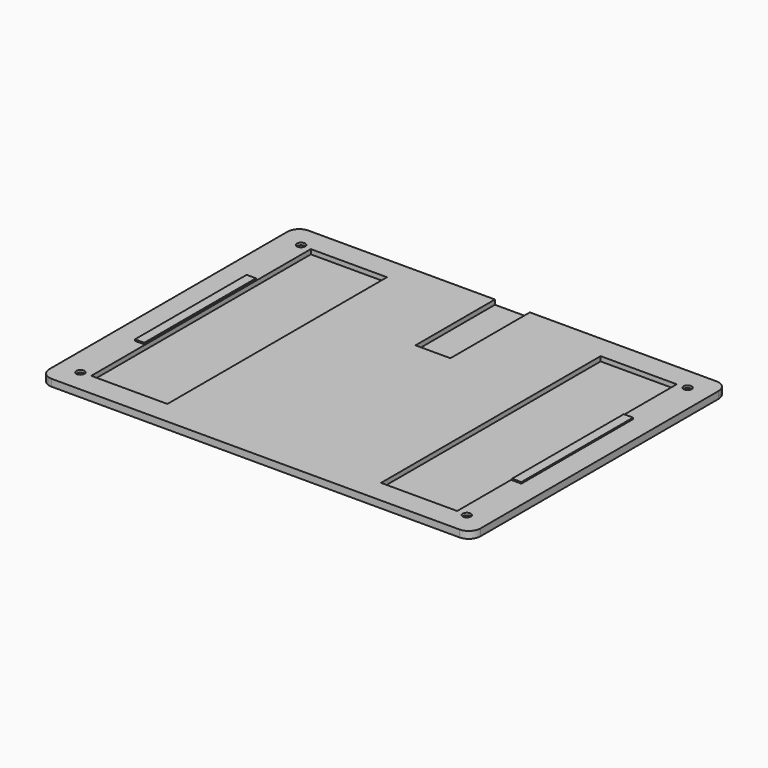
from build123d import *

# Parameters (mm, degrees)
PAD_DEPTH         = 1
SKETCH001_W       = 32.7208
SKETCH001_H       = 117.9
PAD001_DEPTH      = 2
SKETCH002_R       = 1.75
POCKET_DEPTH      = 1.001
POCKET_DEPTH_BACK = -2.001
CHAMFER_SIZE      = 2
SKETCH003_W       = 4
SKETCH003_H       = 60
PAD002_DEPTH      = 2.6


with BuildPart() as part:
    # Sketch → Pad (new body)
    with BuildSketch(Plane.XY):
        with BuildLine():
            Line((-92.6, 63.95), (-92.6, -63.95))
            ThreePointArc((-92.6, -63.95), (-91.135534, -67.485534), (-87.6, -68.95))
            Line((-87.6, -68.95), (87.6, -68.95))
            ThreePointArc((87.6, -68.95), (91.135534, -67.485534), (92.6, -63.95))
            Line((92.6, -63.95), (92.6, 63.95))
            ThreePointArc((92.6, 63.95), (91.135534, 67.485534), (87.6, 68.95))
            Line((87.6, 68.95), (-87.6, 68.95))
            ThreePointArc((-87.6, 68.95), (-91.135534, 67.485534), (-92.6, 63.95))
        make_face()
    extrude(amount=-PAD_DEPTH)

    # Sketch001 → Pad001 (join)
    with BuildSketch(Plane.XY):
        with BuildLine():
            Line((-92.6, 63.950272), (-92.6, -63.95))
            ThreePointArc((-92.6, -63.95), (-91.135534, -67.485534), (-87.6, -68.95))
            Line((-87.6, -68.95), (87.6, -68.95))
            ThreePointArc((87.6, -68.95), (91.135534, -67.485534), (92.6, -63.95))
            Line((92.6, -63.95), (92.6, 63.950001))
            ThreePointArc((92.6, 63.950001), (91.136449, 67.484619), (87.60259, 68.95))
            Line((87.60259, 68.95), (7.5, 68.95))
            Line((7.5, 58.95), (7.5, 68.95))
            Line((7.5, 26.286572), (7.5, 58.95))
            Line((-7.5, 26.286572), (7.5, 26.286572))
            Line((-7.5, 58.95), (-7.5, 26.286572))
            Line((-7.5, 68.95), (-7.5, 58.95))
            Line((-7.5, 68.95), (-87.547876, 68.95))
            ThreePointArc((-87.547876, 68.95), (-91.117057, 67.504186), (-92.6, 63.950272))
        make_face()
        with Locations((-62.2396, 0)):
            Rectangle(SKETCH001_W, SKETCH001_H, mode=Mode.SUBTRACT)
        with Locations((62.2396, 0)):
            Rectangle(SKETCH001_W, SKETCH001_H, mode=Mode.SUBTRACT)
    extrude(amount=PAD001_DEPTH)

    # Sketch002 → Pocket (cut, two sides)
    with BuildSketch(Plane.XY) as pocket_sk:
        with Locations((-83, 59.25)):
            Circle(SKETCH002_R)
        with Locations((83, 59.25)):
            Circle(SKETCH002_R)
        with Locations((83, -59.25)):
            Circle(SKETCH002_R)
        with Locations((-83, -59.25)):
            Circle(SKETCH002_R)
    extrude(amount=-POCKET_DEPTH, mode=Mode.SUBTRACT)
    extrude(pocket_sk.sketch, amount=-POCKET_DEPTH_BACK, mode=Mode.SUBTRACT)

    # Chamfer
    chamfer_edges = [part.edges().sort_by_distance(p)[0] for p in [
        (-84.75, 59.25, -1),
        (-84.75, -59.25, -1),
        (81.25, -59.25, -1),
        (81.25, 59.25, -1),
    ]]
    chamfer(chamfer_edges, length=CHAMFER_SIZE)

    # Sketch003 → Pad002 (join)
    with BuildSketch(Plane.XY):
        with Locations((-81, 0)):
            Rectangle(SKETCH003_W, SKETCH003_H)
        with Locations((81, 0)):
            Rectangle(SKETCH003_W, SKETCH003_H)
    extrude(amount=PAD002_DEPTH)


solid = part.part
